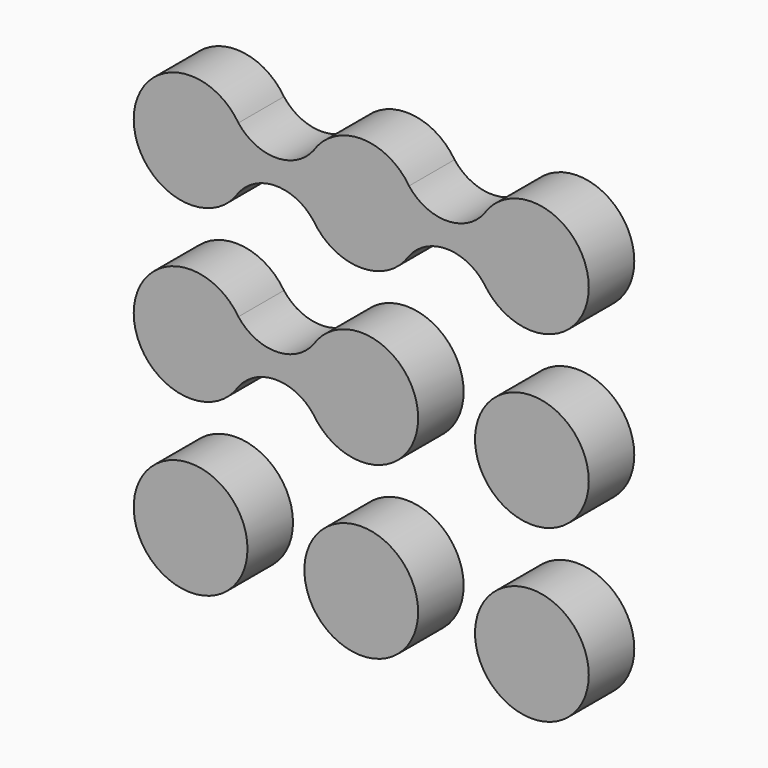
from build123d import *

# Parameters (mm, degrees)
F0_R     = 152.4
F1_DEPTH = 152.4


with BuildPart() as f1:
    # F0 (on Front) → F1 (new body)
    with BuildSketch(Plane.XZ):
        with BuildLine():
            ThreePointArc((-128.10643, 539.75), (-228.6, 490.403348), (-329.09357, 539.75))
            ThreePointArc((-329.09357, 539.75), (-609.6, 457.2), (-329.09357, 374.65))
            ThreePointArc((-329.09357, 374.65), (-228.6, 423.996652), (-128.10643, 374.65))
            ThreePointArc((-128.10643, 374.65), (0, 304.8), (128.10643, 374.65))
            ThreePointArc((128.10643, 374.65), (228.6, 423.996652), (329.09357, 374.65))
            ThreePointArc((329.09357, 374.65), (609.6, 457.2), (329.09357, 539.75))
            ThreePointArc((329.09357, 539.75), (228.6, 490.403348), (128.10643, 539.75))
            ThreePointArc((128.10643, 539.75), (0, 609.6), (-128.10643, 539.75))
        make_face()
        with BuildLine():
            ThreePointArc((-329.09357, -82.55), (-228.6, -33.203348), (-128.10643, -82.55))
            ThreePointArc((-128.10643, -82.55), (152.4, 0), (-128.10643, 82.55))
            ThreePointArc((-128.10643, 82.55), (-228.6, 33.203348), (-329.09357, 82.55))
            ThreePointArc((-329.09357, 82.55), (-609.6, 0), (-329.09357, -82.55))
        make_face()
        with Locations((457.2, 0)):
            Circle(F0_R)
        with Locations((457.2, -457.2)):
            Circle(F0_R)
        with Locations((0, -457.2)):
            Circle(F0_R)
        with Locations((-457.2, -457.2)):
            Circle(F0_R)
    extrude(amount=F1_DEPTH)


solid = f1.part
